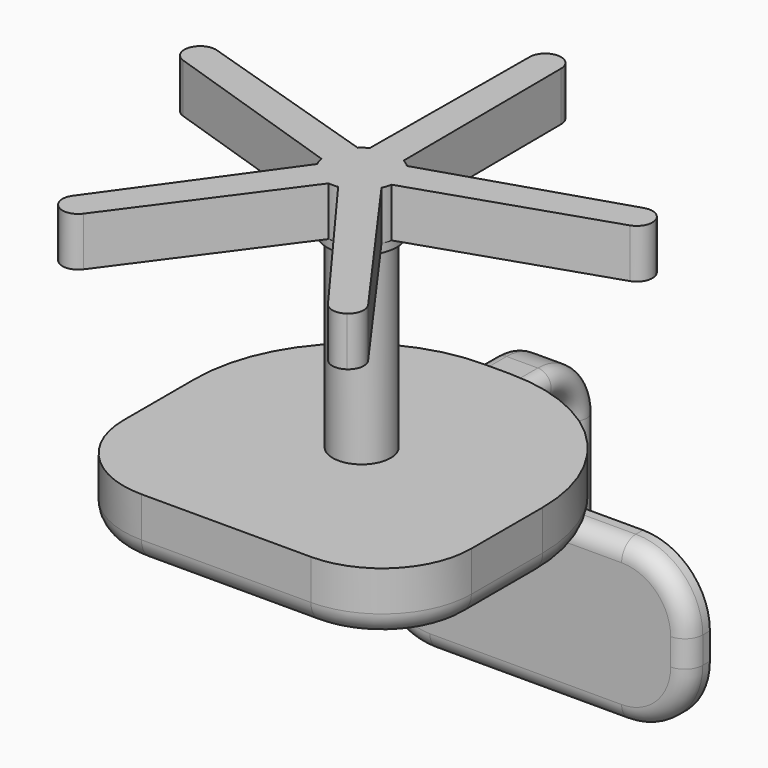
from build123d import *

# Parameters (mm, degrees)
F1_DEPTH  = 55
F2_R      = 17.5
F3_R      = 39
F4_DEPTH  = 10
F5_R      = 32.5
F6_DEPTH  = 210
F8_DEPTH  = 45
F10_DEPTH = 25
F11_R     = 25
F16_DEPTH = 30
F17_R     = 20


with BuildPart() as f1:
    # F0 (on Top) → F1 (new body)
    with BuildSketch(Plane.XY):
        with BuildLine():
            Line((-17.5, 275), (-19, 35.1994318136))
            ThreePointArc((-19, 35.1994318136), (-23.5114100917, 32.360679775), (-27.6053261031, 28.9472964324))
            Line((-27.6053261031, 28.9472964324), (-256.1327445796, 101.6231624883))
            Line((-256.1327445796, 101.6231624883), (-266.9483393827, 68.3361844179))
            Line((-266.9483393827, 68.3361844179), (-39.3479718893, -7.1928511869))
            ThreePointArc((-39.3479718893, -7.1928511869), (-38.0422606518, -12.360679775), (-36.0610298022, -17.309018736))
            Line((-36.0610298022, -17.309018736), (-175.798741782, -212.193431538))
            Line((-175.798741782, -212.193431538), (-147.4831469789, -232.7659153682))
            Line((-147.4831469789, -232.7659153682), (-5.318384016, -39.6448583231))
            ThreePointArc((-5.318384016, -39.6448583231), (0, -40), (5.318384016, -39.6448583231))
            Line((5.318384016, -39.6448583231), (147.4831469789, -232.7659153682))
            Line((147.4831469789, -232.7659153682), (175.798741782, -212.193431538))
            Line((175.798741782, -212.193431538), (36.0610298022, -17.309018736))
            ThreePointArc((36.0610298022, -17.309018736), (38.0422606518, -12.360679775), (39.3479718893, -7.1928511869))
            Line((39.3479718893, -7.1928511869), (266.9483393827, 68.3361844179))
            Line((266.9483393827, 68.3361844179), (256.1327445796, 101.6231624883))
            Line((256.1327445796, 101.6231624883), (27.6053261031, 28.9472964324))
            ThreePointArc((27.6053261031, 28.9472964324), (23.5114100917, 32.360679775), (19, 35.1994318136))
            Line((19, 35.1994318136), (17.5, 275))
            Line((17.5, 275), (-17.5, 275))
        make_face()
    extrude(amount=F1_DEPTH)

    # F2
    f2_edges = [f1.edges().sort_by_distance(p)[0] for p in [
        (17.5, 275, 27.5),
        (256.132745, 101.623162, 27.5),
        (266.948339, 68.336184, 27.5),
        (-17.5, 275, 27.5),
        (-256.132745, 101.623162, 27.5),
        (-266.948339, 68.336184, 27.5),
        (-175.798742, -212.193432, 27.5),
        (-147.483147, -232.765915, 27.5),
        (147.483147, -232.765915, 27.5),
        (175.798742, -212.193432, 27.5),
    ]]
    fillet(f2_edges, radius=F2_R)

    # F3 (on face) → F4 (join)
    with BuildSketch(Plane(origin=(0, 0, 0), x_dir=(1, 0, 0), z_dir=(0, 0, -1))):
        Circle(F3_R)
    extrude(amount=F4_DEPTH)

    # F5 (on face) → F6 (join)
    with BuildSketch(Plane(origin=(0, 0, -10), x_dir=(1, 0, 0), z_dir=(0, 0, -1))):
        Circle(F5_R)
    extrude(amount=F6_DEPTH)

    # F7 (on face) → F8 (join)
    with BuildSketch(Plane(origin=(0, 0, -220), x_dir=(1, 0, 0), z_dir=(0, 0, -1))):
        with BuildLine():
            Line((95, 190), (-95, 190))
            ThreePointArc((-95, 190), (-165.7106781187, 160.7106781187), (-195, 90))
            Line((-195, 90), (-195, -10))
            ThreePointArc((-195, -10), (-142.2792206136, -137.2792206136), (-15, -190))
            Line((-15, -190), (15, -190))
            ThreePointArc((15, -190), (142.2792206136, -137.2792206136), (195, -10))
            Line((195, -10), (195, 90))
            ThreePointArc((195, 90), (165.7106781187, 160.7106781187), (95, 190))
        make_face()
    extrude(amount=F8_DEPTH)

    # F9 (on face) → F10 (join)
    with BuildSketch(Plane(origin=(0, 0, -265), x_dir=(1, 0, 0), z_dir=(0, 0, -1))):
        with BuildLine():
            Line((95, 190), (-95, 190))
            ThreePointArc((-95, 190), (-165.7106781187, 160.7106781187), (-195, 90))
            Line((-195, 90), (-195, -10))
            ThreePointArc((-195, -10), (-142.2792206136, -137.2792206136), (-15, -190))
            Line((-15, -190), (15, -190))
            ThreePointArc((15, -190), (142.2792206136, -137.2792206136), (195, -10))
            Line((195, -10), (195, 90))
            ThreePointArc((195, 90), (165.7106781187, 160.7106781187), (95, 190))
        make_face()
    extrude(amount=F10_DEPTH)

    # F11
    f11_edges = [f1.edges().sort_by_distance(p)[0] for p in [
        (195, -40, -290),
    ]]
    fillet(f11_edges, radius=F11_R)

    # F14: sweep along a path in F13
    with BuildLine(Plane.YZ) as f14_path:
        Line((190, -242.5), (225, -242.5))
        ThreePointArc((225, -242.5), (260.3553390593, -257.1446609407), (275, -292.5))
        Line((275, -292.5), (275, -462.5))
    # F12 (on face) → F14 (sweep)
    with BuildSketch(Plane(origin=(0, 190, 0), x_dir=(-1, 0, 0), z_dir=(0, 1, 0))):
        with BuildLine():
            Line((17.5, -227.5), (-17.5, -227.5))
            ThreePointArc((-17.5, -227.5), (-28.1066017178, -231.8933982822), (-32.5, -242.5))
            ThreePointArc((-32.5, -242.5), (-28.1066017178, -253.1066017178), (-17.5, -257.5))
            Line((-17.5, -257.5), (17.5, -257.5))
            ThreePointArc((17.5, -257.5), (28.1066017178, -253.1066017178), (32.5, -242.5))
            ThreePointArc((32.5, -242.5), (28.1066017178, -231.8933982822), (17.5, -227.5))
        make_face()
    sweep(path=f14_path.line)

    # F15 (on face) → F16 (join)
    with BuildSketch(Plane.XZ.offset(-260)):
        with BuildLine():
            Line((107.5, -372.5), (-107.5, -372.5))
            ThreePointArc((-107.5, -372.5), (-160.533008589, -394.466991411), (-182.5, -447.5))
            Line((-182.5, -447.5), (-182.5, -477.5))
            ThreePointArc((-182.5, -477.5), (-160.533008589, -530.533008589), (-107.5, -552.5))
            Line((-107.5, -552.5), (107.5, -552.5))
            ThreePointArc((107.5, -552.5), (160.533008589, -530.533008589), (182.5, -477.5))
            Line((182.5, -477.5), (182.5, -447.5))
            ThreePointArc((182.5, -447.5), (160.533008589, -394.466991411), (107.5, -372.5))
        make_face()
    extrude(amount=F16_DEPTH)

    # F17
    f17_edges = [f1.edges().sort_by_distance(p)[0] for p in [
        (-160.533009, 230, -530.533009),
    ]]
    fillet(f17_edges, radius=F17_R)


solid = f1.part
